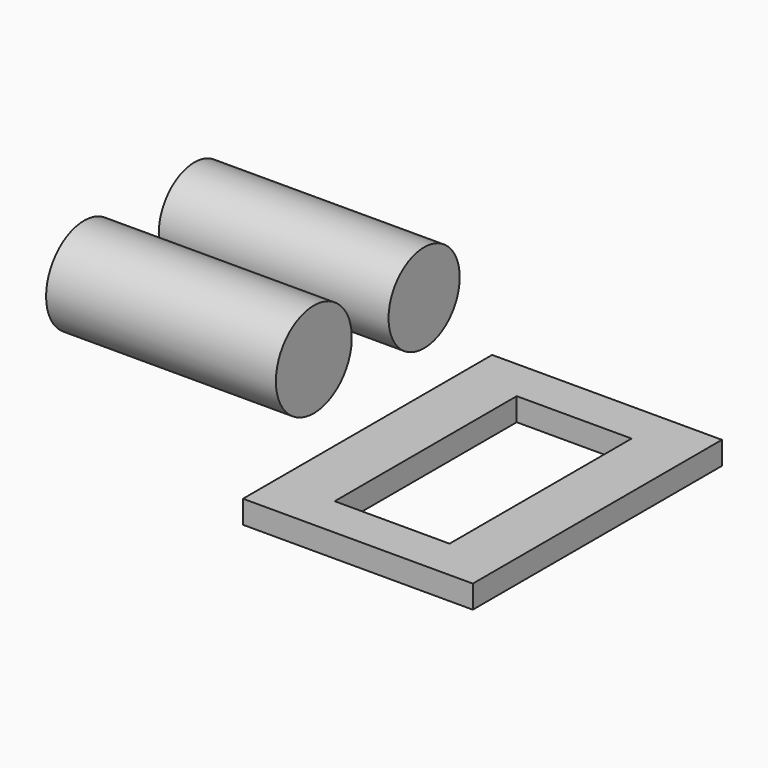
from build123d import *

# Parameters (mm, degrees)
F0_W     = 25.4
F0_H     = 34.419338
F0_W_2   = 12.7
F0_H_2   = 25.154176
F1_DEPTH = 2.54
F2_R     = 4.916887
F2_R_2   = 5.246253
F3_DEPTH = 25.4


with BuildPart() as f1:
    # F0 (on Top) → F1 (new body)
    with BuildSketch(Plane.XY):
        with Locations((-0.109155, 0.545768)):
            Rectangle(F0_W, F0_H)
        with Locations((0.011211, 0.488494)):
            Rectangle(F0_W_2, F0_H_2, mode=Mode.SUBTRACT)
    extrude(amount=F1_DEPTH)


with BuildPart() as f3:
    # F2 (on face) → F3 (new body)
    with BuildSketch(Plane(origin=(-12.809155, 0, 0), x_dir=(0, -1, 0), z_dir=(-1, 0, 0))):
        with Locations((-8.360164, 11.923256)):
            Circle(F2_R)
        with Locations((6.875474, 12.116112)):
            Circle(F2_R_2)
    extrude(amount=F3_DEPTH)


solid = Compound([f1.part, f3.part])
